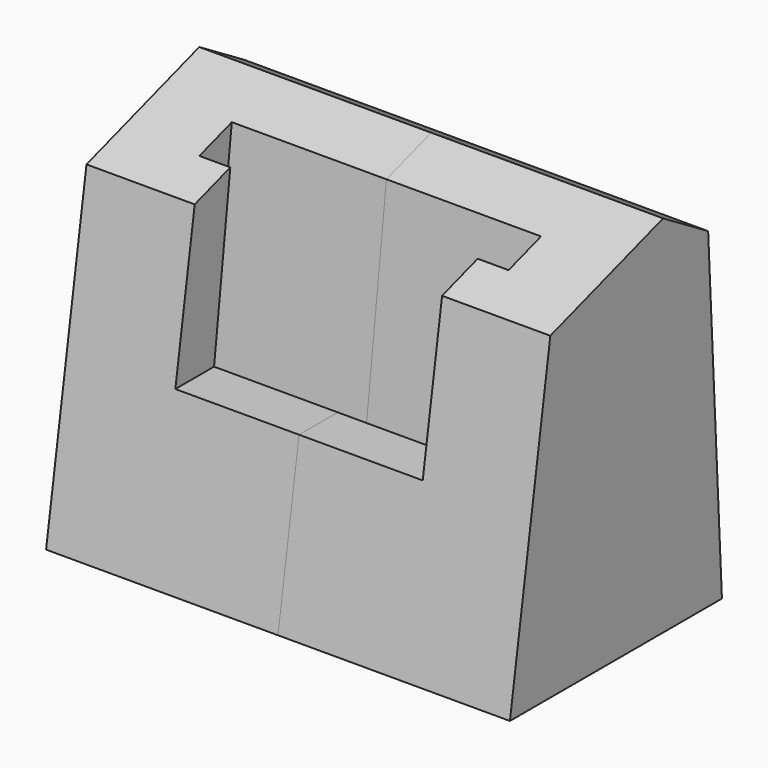
from build123d import *

# Parameters (mm, degrees)
F1_DEPTH = 30
F3_DEPTH = 20
F5_DEPTH = 16


with BuildPart() as f1:
    # F0 (on Right) → F1 (new body)
    with BuildSketch(Plane.YZ):
        Polygon((-17.5289604813, 0), (7.9001290724, 0), (16.7479291558, 0), (14.5212650044, 42.7511196038), (7.2340909392, 47.1681281924), (-10.9974298997, 41.2129498842), align=None)
    extrude(amount=-F1_DEPTH)

    # F2 (on face) → F3 (cut)
    with BuildSketch(Plane.YZ):
        Polygon((0, 44.8051711017), (-5.2442131429, 43.0921914425), (-8.4929573007, 16.2883547508), (-6.5074879162, 16.0477070354), (-7.1091072047, 11.084033574), (-6.1163725124, 10.9637097163), (-5.5147532239, 15.9273831777), (-3.5292838393, 15.6867354623), align=None)
        Polygon((0, 44.8051711017), (-5.2442131429, 43.0921914425), (-8.4929573007, 16.2883547508), (-6.5074879162, 16.0477070354), (-7.1091072047, 11.084033574), (-6.1163725124, 10.9637097163), (-5.5147532239, 15.9273831777), (-3.5292838393, 15.6867354623), align=None)
    extrude(amount=-F3_DEPTH, mode=Mode.SUBTRACT)

    # F4 (on face) → F5 (cut)
    with BuildSketch(Plane.YZ):
        Polygon((-10.9974298997, 41.2129498842), (-14.1280084526, 21.459482393), (-7.8661936434, 21.459482393), (-5.2442131429, 43.0921914425), align=None)
    extrude(amount=-F5_DEPTH, mode=Mode.SUBTRACT)


with BuildPart() as f6_1:
    # F6: instance of F1
    add(f1.part.mirror(Plane.YZ))


solid = Compound([f1.part, f6_1.part])
